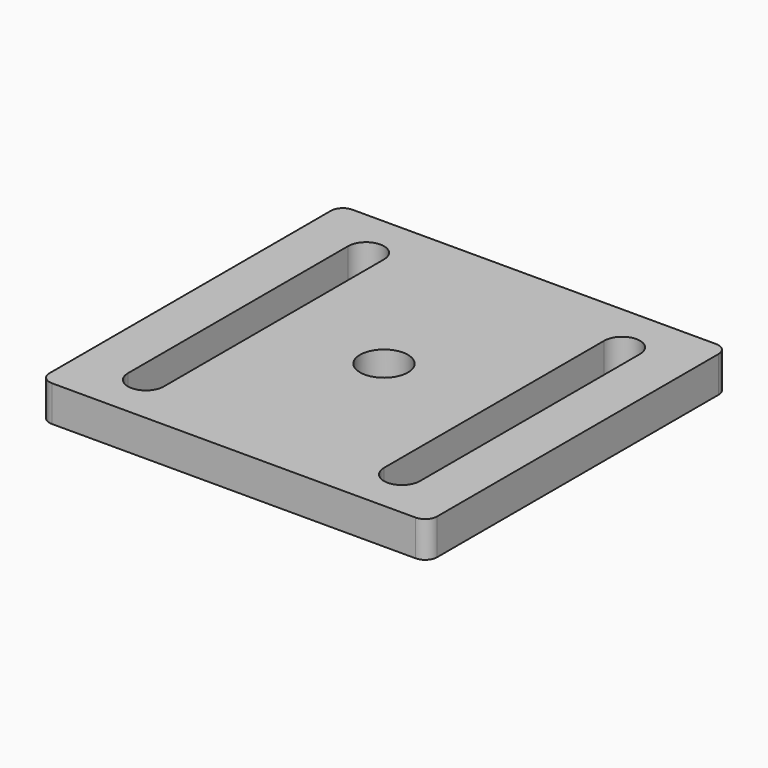
from build123d import *

# Parameters (mm, degrees)
F0_R     = 10
F1_DEPTH = 15


with BuildPart() as f1:
    # F0 (on Top) → F1 (new body)
    with BuildSketch(Plane.XY):
        with BuildLine():
            Line((76, 78.5), (-76, 78.5))
            ThreePointArc((-76, 78.5), (-79.535534, 77.035534), (-81, 73.5))
            Line((-81, 73.5), (-81, -73.5))
            ThreePointArc((-81, -73.5), (-79.535534, -77.035534), (-76, -78.5))
            Line((-76, -78.5), (76, -78.5))
            ThreePointArc((76, -78.5), (79.535534, -77.035534), (81, -73.5))
            Line((81, -73.5), (81, 73.5))
            ThreePointArc((81, 73.5), (79.535534, 77.035534), (76, 78.5))
        make_face()
        with BuildLine():
            ThreePointArc((-61, 57.5), (-53.5, 65), (-46, 57.5))
            Line((-46, 57.5), (-46, 0))
            Line((-46, 0), (-46, -57.5))
            ThreePointArc((-46, -57.5), (-53.5, -65), (-61, -57.5))
            Line((-61, -57.5), (-61, 0))
            Line((-61, 0), (-61, 57.5))
        make_face(mode=Mode.SUBTRACT)
        Circle(F0_R, mode=Mode.SUBTRACT)
        with BuildLine():
            Line((46, 0), (46, 57.5))
            ThreePointArc((46, 57.5), (53.5, 65), (61, 57.5))
            Line((61, 57.5), (61, 0))
            Line((61, 0), (61, -57.5))
            ThreePointArc((61, -57.5), (53.5, -65), (46, -57.5))
            Line((46, -57.5), (46, 0))
        make_face(mode=Mode.SUBTRACT)
    extrude(amount=F1_DEPTH)


solid = f1.part
